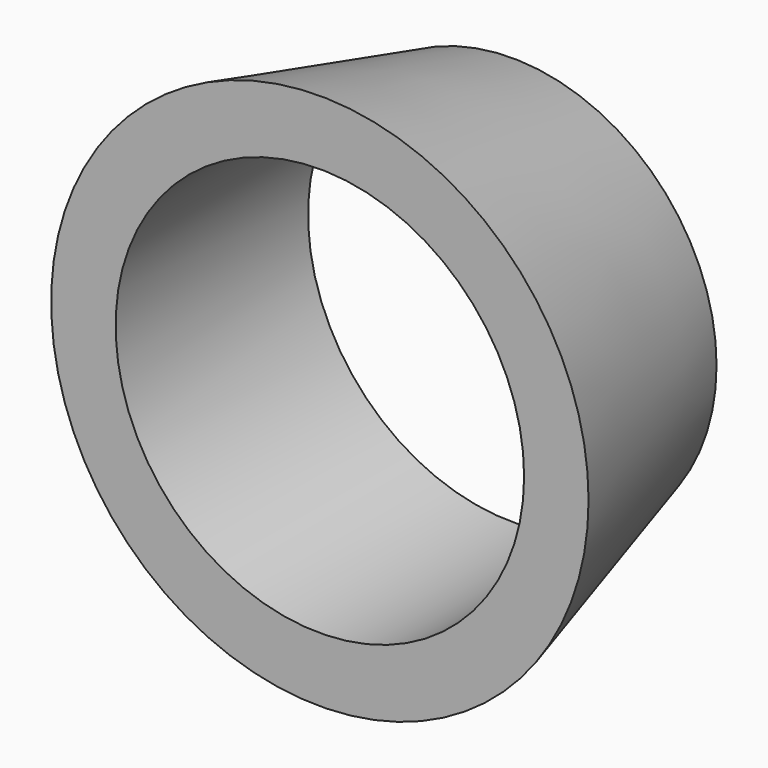
from build123d import *

# Parameters (mm, degrees)
F0_R     = 30.3757811568
F1_DEPTH = 60.452
F1_TAPER = -15
F2_R     = 35.4015704277
F3_DEPTH = 105.41


with BuildPart() as f1:
    # F0 (on Front) → F1 (new body)
    with BuildSketch(Plane.XZ):
        Circle(F0_R)
    extrude(amount=F1_DEPTH, taper=F1_TAPER)

    # F2 (on face) → F3 (cut)
    with BuildSketch(Plane.XZ.offset(60.452)):
        Circle(F2_R)
    extrude(amount=-F3_DEPTH, mode=Mode.SUBTRACT)


solid = f1.part
